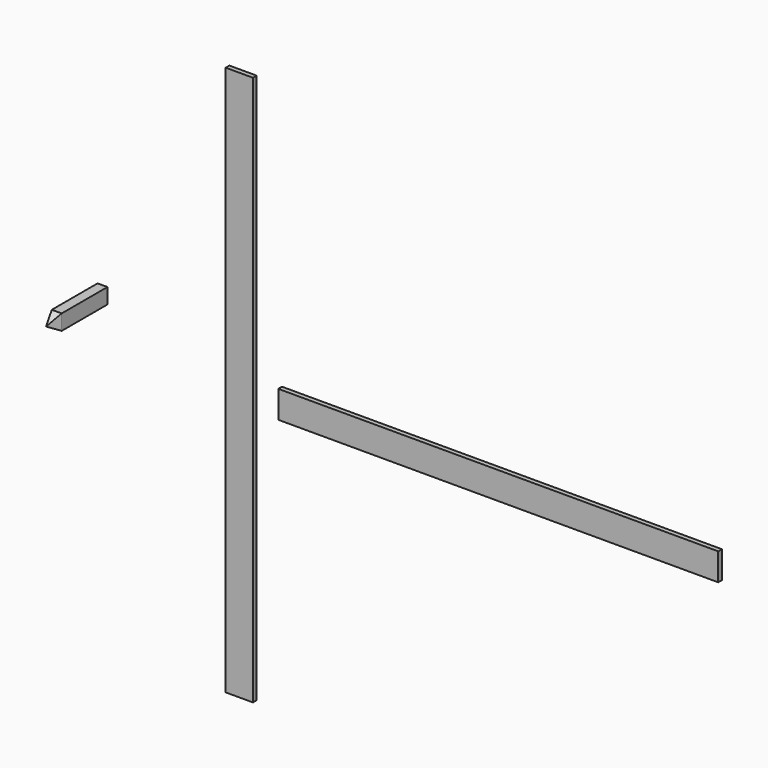
from build123d import *

# Parameters (mm, degrees)
F0_W     = 124
F0_H     = 21
F1_DEPTH = 1250
F2_W     = 45
F2_H     = 70
F3_DEPTH = 320
F4_SIZE2 = 60
F4_SIZE  = 22
F5_SIZE2 = 60
F5_SIZE  = 34.5
F6_W     = 21
F6_H     = 124
F7_DEPTH = 2000


with BuildPart() as f1:
    # F0 (on Top) → F1 (new body, symmetric)
    with BuildSketch(Plane.XY):
        with Locations((31.553287496, -14.0481669903)):
            Rectangle(F0_W, F0_H)
    extrude(amount=F1_DEPTH, both=True)


with BuildPart() as f3:
    # F2 (on face) → F3 (new body)
    with BuildSketch(Plane(origin=(0, -3.5481669903, 0), x_dir=(-1, 0, 0), z_dir=(0, 1, 0))):
        with Locations((863.2462115258, -64.8556835949)):
            Rectangle(F2_W, F2_H)
    extrude(amount=F3_DEPTH)

    # F4
    f4_edges = [f3.edges().sort_by_distance(p)[0] for p in [
        (-840.746212, -3.548167, -64.855684),
        (-885.746212, -3.548167, -64.855684),
    ]]
    f4_side = f3.faces().sort_by_distance((-863.246212, -3.548167, -64.855684))[0]
    chamfer(f4_edges, length=F4_SIZE, length2=F4_SIZE2, reference=f4_side)

    # F5
    f5_edges = [f3.edges().sort_by_distance(p)[0] for p in [
        (-863.246212, -3.548167, -99.855684),
        (-863.246212, -3.548167, -29.855684),
    ]]
    f5_side = f3.faces().sort_by_distance((-863.246212, -3.548167, -64.855684))[0]
    chamfer(f5_edges, length=F5_SIZE, length2=F5_SIZE2, reference=f5_side)


with BuildPart() as f7:
    # F6 (on Right) → F7 (new body)
    with BuildSketch(Plane.YZ):
        with Locations((246.501280446, -193.1747496128)):
            Rectangle(F6_W, F6_H)
    extrude(amount=F7_DEPTH)


solid = Compound([f1.part, f3.part, f7.part])
